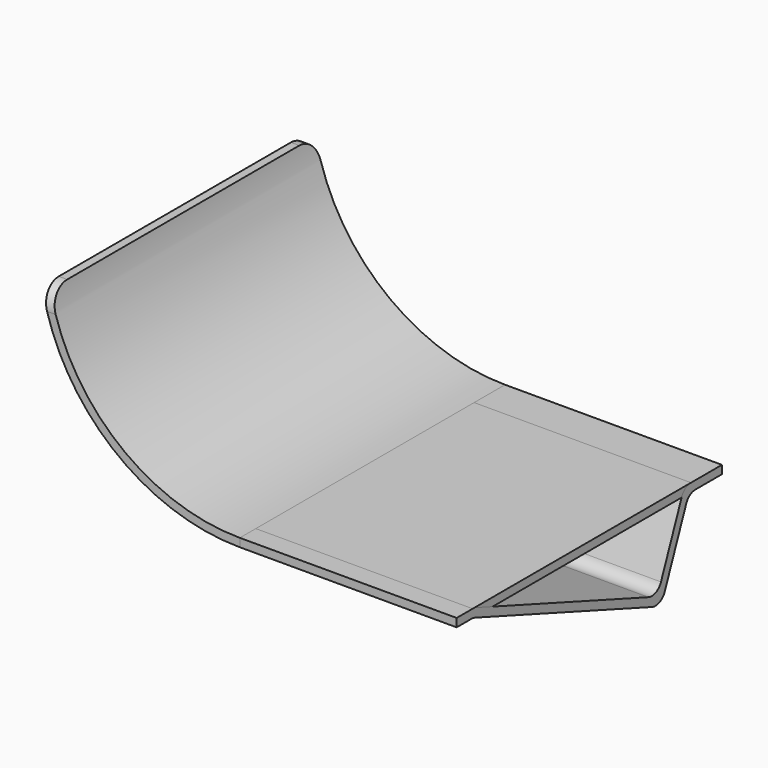
from build123d import *

# Parameters (mm, degrees)
F1_DEPTH = 80
F2_R     = 5
F5_DEPTH = 52.3298562962


with BuildPart() as f1:
    # F0 (on Front) → F1 (new body)
    with BuildSketch(Plane.XZ):
        with BuildLine():
            Line((-52.3298562962, 0), (0, 0))
            Line((0, 0), (0, 2))
            Line((0, 2), (-52.3298562962, 2))
            ThreePointArc((-52.3298562962, 2), (-82.0233760889, 12.7436715119), (-97.9677842805, 40))
            Line((-97.9677842805, 40), (-100, 40))
            ThreePointArc((-100, 40), (-83.4443328334, 11.3247433143), (-52.3298562962, 0))
        make_face()
    extrude(amount=F1_DEPTH)

    # F2
    f2_edges = [f1.edges().sort_by_distance(p)[0] for p in [
        (-98.983892, -80, 40),
        (-98.983892, 0, 40),
        (0, -80, 1),
        (0, 0, 1),
    ]]
    fillet(f2_edges, radius=F2_R)


with BuildPart() as f5:
    # F3 (on Right) → F5 (new body, through all)
    with BuildSketch(Plane.YZ):
        with BuildLine():
            ThreePointArc((-75.5289809421, 0), (-75.0080364091, -0.045576741), (-74.5029205121, -0.1809221376))
            Line((-74.5029205121, -0.1809221376), (-21.055423179, -19.6342202629))
            ThreePointArc((-21.055423179, -19.6342202629), (-18.8091528198, -19.5557787735), (-17.2478111853, -17.9389621808))
            Line((-17.2478111853, -17.9389621808), (-10.7580260132, -1.8761802198))
            ThreePointArc((-10.7580260132, -1.8761802198), (-9.6540531599, -0.5128872823), (-7.9764744495, 0))
            Line((-7.9764744495, 0), (0, 0))
            Line((0, 0), (0, 2))
            Line((0, 2), (-9.3254914832, 2))
            ThreePointArc((-9.3254914832, 2), (-11.0030701936, 1.4871127177), (-12.1070430469, 0.1238197802))
            Line((-12.1070430469, 0.1238197802), (-18.37867213, -15.3990069129))
            ThreePointArc((-18.37867213, -15.3990069129), (-19.9400137645, -17.0158235056), (-22.1862841237, -17.094264995))
            Line((-22.1862841237, -17.094264995), (-74.1502665507, 1.8190778624))
            ThreePointArc((-74.1502665507, 1.8190778624), (-74.6553824477, 1.954423259), (-75.1763269807, 2))
            Line((-75.1763269807, 2), (-80, 2))
            Line((-80, 2), (-80, 0))
            Line((-80, 0), (-75.5289809421, 0))
        make_face()
    extrude(amount=-F5_DEPTH)


solid = Compound([f1.part, f5.part])
